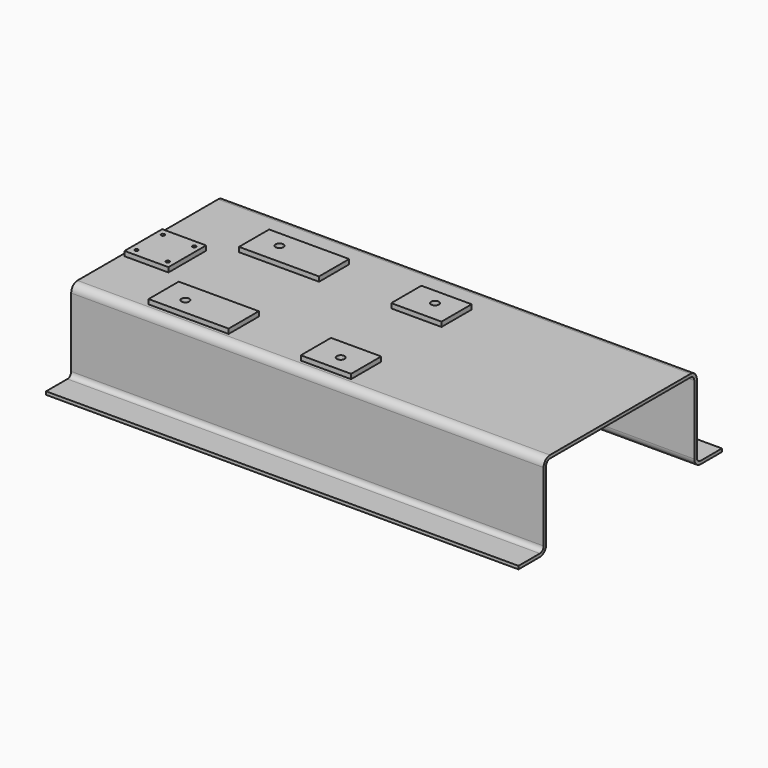
from build123d import *

# Parameters (mm, degrees)
F1_DEPTH = 955.675
F3_W     = 203.2
F3_H     = 152.4
F3_W_2   = 323.85
F4_DEPTH = 19.05
F6_D     = 31.75
F8_DEPTH = 19.05
F10_D    = 14.2875


with BuildPart() as f1:
    # F0 (on Right) → F1 (new body, symmetric)
    with BuildSketch(Plane.YZ):
        with BuildLine():
            Line((0, 171.45), (-355.6, 171.45))
            ThreePointArc((-355.6, 171.45), (-378.05064, 162.15064), (-387.35, 139.7))
            Line((-387.35, 139.7), (-387.35, -139.7))
            ThreePointArc((-387.35, -139.7), (-392.929616, -153.170384), (-406.4, -158.75))
            Line((-406.4, -158.75), (-514.35, -158.75))
            Line((-514.35, -158.75), (-514.35, -171.45))
            Line((-514.35, -171.45), (-406.4, -171.45))
            ThreePointArc((-406.4, -171.45), (-383.94936, -162.15064), (-374.65, -139.7))
            Line((-374.65, -139.7), (-374.65, 139.7))
            ThreePointArc((-374.65, 139.7), (-369.070384, 153.170384), (-355.6, 158.75))
            Line((-355.6, 158.75), (0, 158.75))
            Line((0, 158.75), (0, 171.45))
        make_face()
    extrude(amount=F1_DEPTH, both=True)

    # F2: F1 across plane


with BuildPart() as f1_1:
    add(f1.part)
    add(f1.part.mirror(Plane.XZ))

    # F3 (on face) → F4 (join)
    with BuildSketch(Plane.XY.offset(171.45)):
        with Locations((39.497, -266.7)):
            Rectangle(F3_W, F3_H)
        with Locations((39.497, 190.5)):
            Rectangle(F3_W, F3_H)
        with Locations((-516.128, -266.7)):
            Rectangle(F3_W_2, F3_H)
        with Locations((-516.128, 190.5)):
            Rectangle(F3_W_2, F3_H)
    extrude(amount=F4_DEPTH)

    # F6 (through all)
    with Locations(Plane.XY.offset(190.5)):
        with Locations((-582.803, 200.152), (-582.803, -276.098), (45.847, 200.152), (45.847, -276.098)):
            Hole(F6_D / 2)

    # F7 (on face) → F8 (join)
    with BuildSketch(Plane.XY.offset(171.45)):
        Polygon((-765.429, -133.35), (-765.429, -38.1), (-765.429, 57.15), (-943.229, 57.15), (-943.229, -38.1), (-943.229, -133.35), align=None)
    extrude(amount=F8_DEPTH)

    # F10 (through all)
    with Locations(Plane.XY.offset(190.5)):
        with Locations((-917.575, 28.448), (-790.575, 28.448), (-917.575, -104.902), (-790.575, -104.902)):
            Hole(F10_D / 2)


solid = f1_1.part
